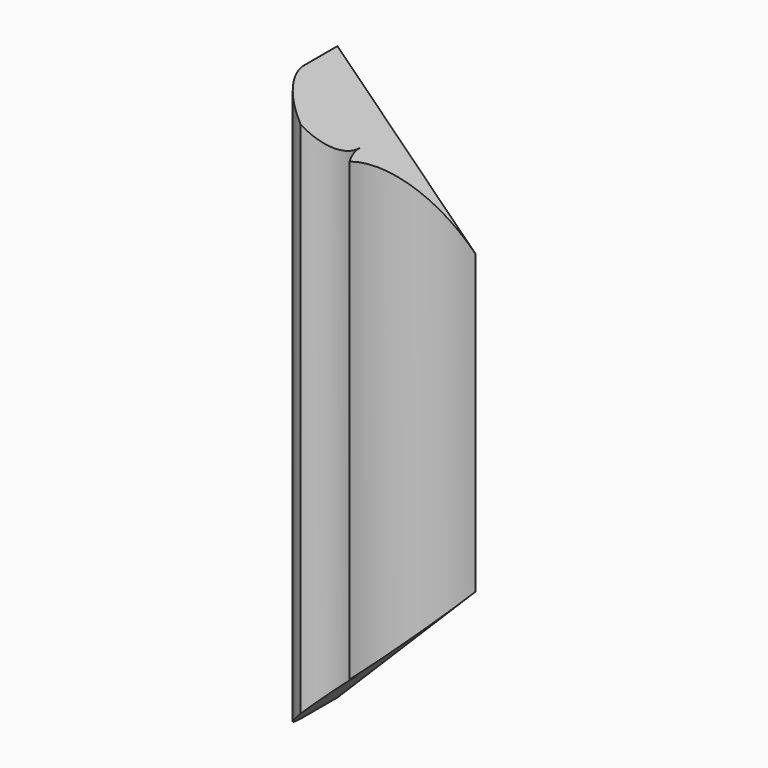
from build123d import *

# Parameters (mm, degrees)
SKETCH005_W          = 25
SKETCH005_H          = 104
PAD001_DEPTH         = 15
FRAME45CUT_SIZE      = 24.99
ROUTERPATTERN001_R   = 15
ROUTER001_DEPTH      = 52.001
ROUTER001_DEPTH_BACK = 52.001
ROUTER005_DEPTH      = 52.001
ROUTER005_DEPTH_BACK = 52.001
ROUTER008_DEPTH      = 52.001
ROUTER008_DEPTH_BACK = 52.001


with BuildPart() as part:
    # Sketch005 → Pad001 (new body)
    with BuildSketch(Plane(origin=(21, -33, 23), x_dir=(1, 0, 0), z_dir=(0, -1, 0))):
        with Locations((12.5, 52)):
            Rectangle(SKETCH005_W, SKETCH005_H)
    extrude(amount=-PAD001_DEPTH)

    # Frame45Cut
    frame45cut_edges = [part.edges().sort_by_distance(p)[0] for p in [
        (46, -25.5, 127),
        (46, -25.5, 23),
    ]]
    chamfer(frame45cut_edges, length=FRAME45CUT_SIZE)

    # routerPattern001 → router001 (cut, two sides)
    with BuildSketch(Plane(origin=(46, -33, 75), x_dir=(1, 0, 0), z_dir=(0, 0, 1))) as router001_sk:
        Circle(ROUTERPATTERN001_R)
    extrude(amount=-ROUTER001_DEPTH, mode=Mode.SUBTRACT)
    extrude(router001_sk.sketch, amount=ROUTER001_DEPTH_BACK, mode=Mode.SUBTRACT)

    # routerPattern005 → router005 (cut, two sides)
    with BuildSketch(Plane(origin=(31, -33, 75), x_dir=(1, 0, 0), z_dir=(0, 0, 1))) as router005_sk:
        with BuildLine():
            ThreePointArc((7.500027, 0), (2.196717, -2.196697), (0, -7.5))
            ThreePointArc((0, -7.5), (-2.196717, -2.196698), (-7.500027, 0))
            ThreePointArc((-7.500027, 0), (-2.196707, 2.196707), (0, 7.500027))
            ThreePointArc((0, 7.500027), (2.196707, 2.196707), (7.500027, 0))
        make_face()
    extrude(amount=-ROUTER005_DEPTH, mode=Mode.SUBTRACT)
    extrude(router005_sk.sketch, amount=ROUTER005_DEPTH_BACK, mode=Mode.SUBTRACT)

    # routerPattern008 → router008 (cut, two sides)
    with BuildSketch(Plane(origin=(21, -33, 75), x_dir=(1, 0, 0), z_dir=(0, 0, 1))) as router008_sk:
        with BuildLine():
            ThreePointArc((7.500019, 0), (2.196711, -2.196698), (0, -7.5))
            ThreePointArc((0, -7.5), (-2.196711, -2.196698), (-7.500018, 0))
            ThreePointArc((-7.500018, 0), (-2.196704, 2.196705), (0, 7.500019))
            ThreePointArc((0, 7.500019), (2.196705, 2.196705), (7.500019, 0))
        make_face()
    extrude(amount=-ROUTER008_DEPTH, mode=Mode.SUBTRACT)
    extrude(router008_sk.sketch, amount=ROUTER008_DEPTH_BACK, mode=Mode.SUBTRACT)


solid = part.part
